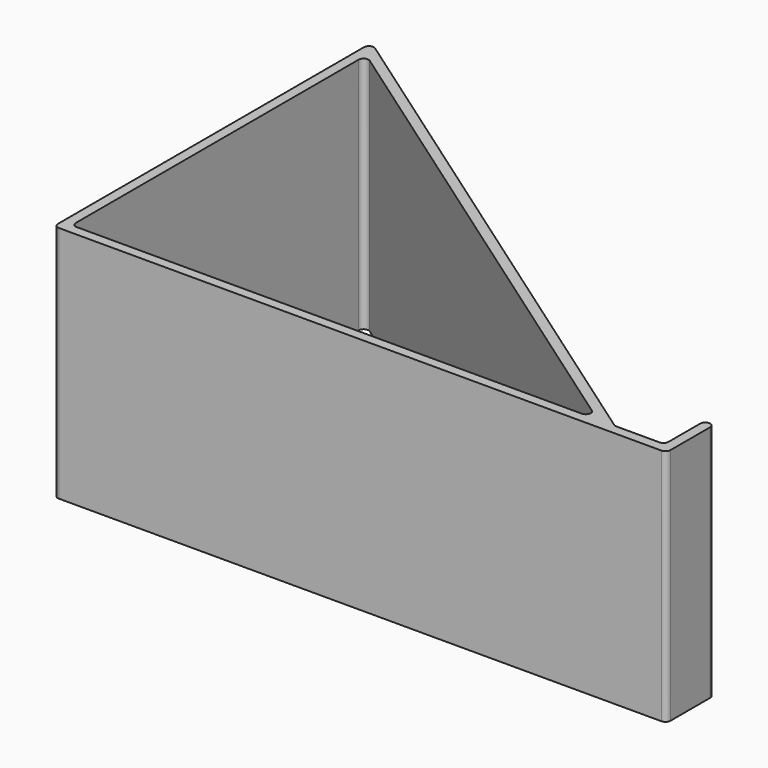
from build123d import *

# Parameters (mm, degrees)
F1_DEPTH = 76.2


with BuildPart() as f1:
    # F0 (on Top) → F1 (new body)
    with BuildSketch(Plane.XY):
        with BuildLine():
            Line((0, 123.950441), (0, 1.5875))
            ThreePointArc((0, 1.5875), (0.464968, 0.464968), (1.5875, 0))
            Line((1.5875, 0), (181.374797, 0))
            Line((181.374797, 0), (194.302927, 0))
            ThreePointArc((194.302927, 0), (195.425459, 0.464968), (195.890427, 1.5875))
            Line((195.890427, 1.5875), (195.890427, 17.4625))
            ThreePointArc((195.890427, 17.4625), (195.425459, 18.585032), (194.302927, 19.05))
            ThreePointArc((194.302927, 19.05), (193.180395, 18.585032), (192.715427, 17.4625))
            Line((192.715427, 17.4625), (192.715427, 4.7625))
            ThreePointArc((192.715427, 4.7625), (192.250459, 3.639968), (191.127927, 3.175))
            Line((191.127927, 3.175), (176.840427, 3.175))
            Line((176.840427, 3.175), (2.498053, 125.250845))
            ThreePointArc((2.498053, 125.250845), (0.854474, 125.358571), (0, 123.950441))
        make_face()
        with BuildLine():
            Line((5.673053, 119.151726), (167.180629, 6.062904))
            ThreePointArc((167.180629, 6.062904), (167.784102, 4.28513), (166.270077, 3.175))
            Line((166.270077, 3.175), (4.7625, 3.175))
            ThreePointArc((4.7625, 3.175), (3.639968, 3.639968), (3.175, 4.7625))
            Line((3.175, 4.7625), (3.175, 117.851323))
            ThreePointArc((3.175, 117.851323), (4.029474, 119.259452), (5.673053, 119.151726))
        make_face(mode=Mode.SUBTRACT)
    extrude(amount=F1_DEPTH)


solid = f1.part
